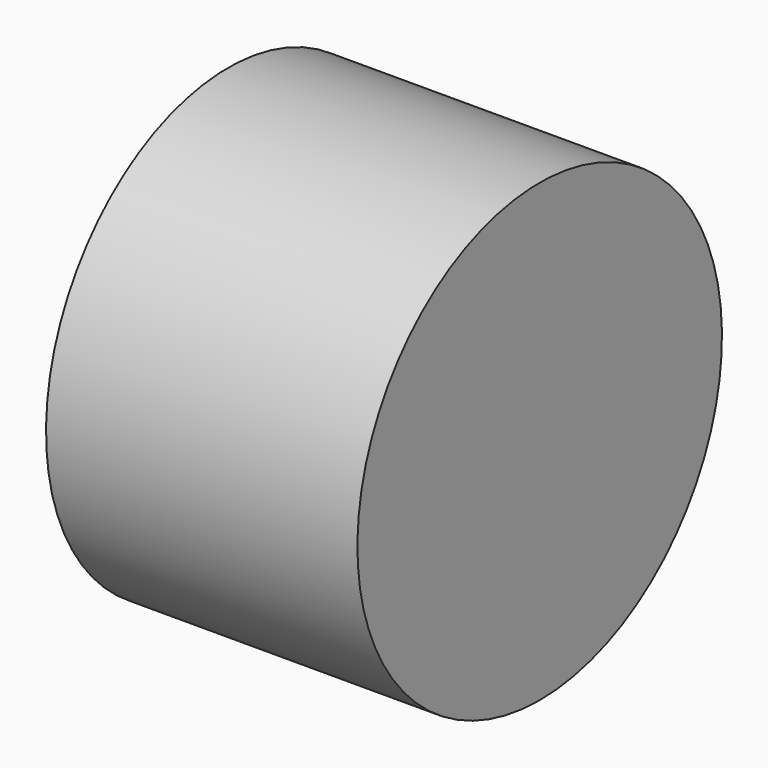
from build123d import *

# Parameters (mm, degrees)
CYLINDER062_R     = 1.25
CYLINDER062_DEPTH = 5
CYLINDER038_R     = 3
CYLINDER038_DEPTH = 4.1


with BuildPart() as b_w009:
    # Cylinder062 → Cylinder062 (new body)
    with BuildSketch(Plane(origin=(2, 6, 26), x_dir=(0, 0, 1), z_dir=(-1, 0, 0))):
        Circle(CYLINDER062_R)
    extrude(amount=CYLINDER062_DEPTH)


with BuildPart() as cut023:
    # Cylinder038 → Cylinder038 (new body)
    with BuildSketch(Plane(origin=(-1, 6, 26), x_dir=(0, 0, -1), z_dir=(1, 0, 0))):
        Circle(CYLINDER038_R)
    extrude(amount=CYLINDER038_DEPTH)

    # Cut023: cut B_W009
    add(b_w009.part, mode=Mode.SUBTRACT)


solid = cut023.part
